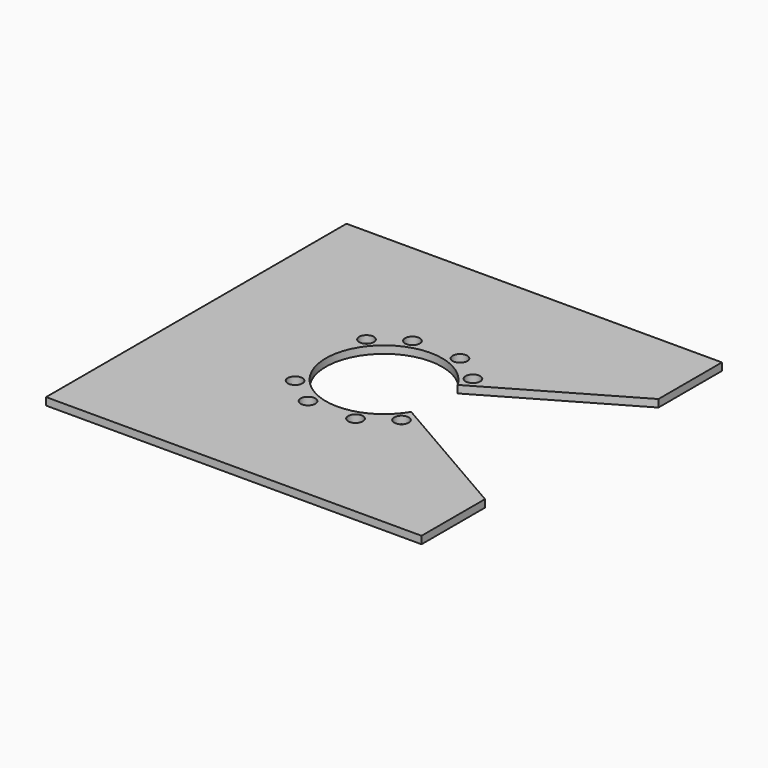
from build123d import *

# Parameters (mm, degrees)
F0_R     = 19.5
F1_DEPTH = 20


with BuildPart() as f1:
    # F0 (on Top) → F1 (new body)
    with BuildSketch(Plane.XY):
        with BuildLine():
            ThreePointArc((128.03357, -87.363636), (-155, 0), (128.03357, 87.363636))
            ThreePointArc((128.03357, 87.363636), (131.226462, 82.490095), (134.233938, 77.5))
            Line((134.233938, 77.5), (500, 288.675135))
            Line((500, 288.675135), (500, 500))
            Line((500, 500), (-500, 500))
            Line((-500, 500), (-500, -500))
            Line((-500, -500), (500, -500))
            Line((500, -500), (500, -288.675135))
            Line((500, -288.675135), (134.233938, -77.5))
            ThreePointArc((134.233938, -77.5), (131.226462, -82.490095), (128.03357, -87.363636))
        make_face()
        with Locations((-63.273727, -173.843135)):
            Circle(F0_R, mode=Mode.SUBTRACT)
        with Locations((-141.718222, -118.915708)):
            Circle(F0_R, mode=Mode.SUBTRACT)
        with Locations((63.273727, -173.843135)):
            Circle(F0_R, mode=Mode.SUBTRACT)
        with Locations((141.718222, -118.915708)):
            Circle(F0_R, mode=Mode.SUBTRACT)
        with Locations((-141.718222, 118.915708)):
            Circle(F0_R, mode=Mode.SUBTRACT)
        with Locations((-63.273727, 173.843135)):
            Circle(F0_R, mode=Mode.SUBTRACT)
        with Locations((141.718222, 118.915708)):
            Circle(F0_R, mode=Mode.SUBTRACT)
        with Locations((63.273727, 173.843135)):
            Circle(F0_R, mode=Mode.SUBTRACT)
    extrude(amount=F1_DEPTH)


solid = f1.part
